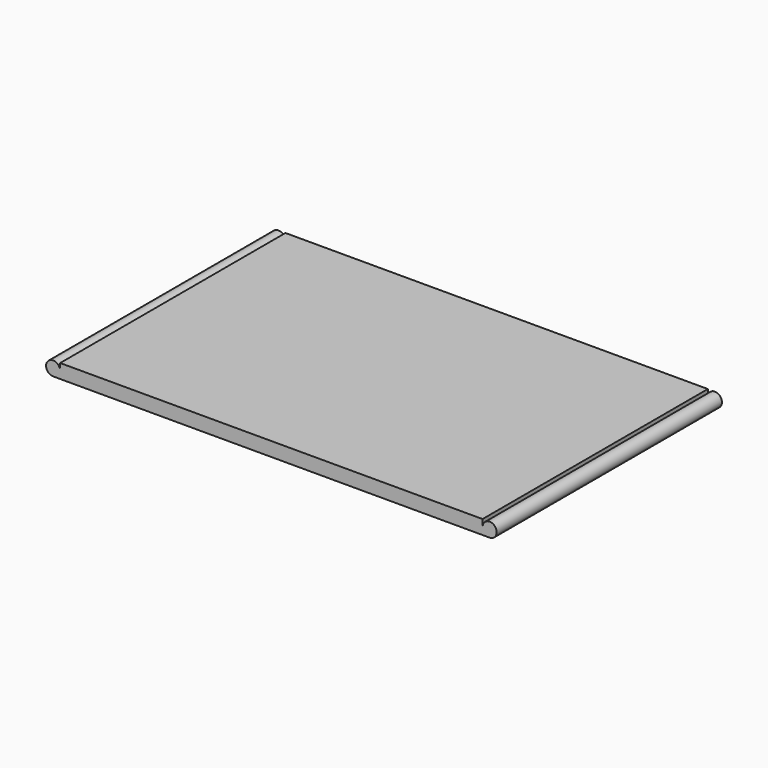
from build123d import *

# Parameters (mm, degrees)
F1_DEPTH = 100


with BuildPart() as f1:
    # F0 (on Front) → F1 (new body, symmetric)
    with BuildSketch(Plane.XZ):
        with BuildLine():
            Line((-155, -5), (155, -5))
            ThreePointArc((155, -5), (158.535534, 3.535534), (150, 0))
            Line((150, 0), (150, 5))
            Line((150, 5), (-150, 5))
            Line((-150, 5), (-150, 0))
            ThreePointArc((-150, 0), (-158.535534, 3.535534), (-155, -5))
        make_face()
    extrude(amount=F1_DEPTH, both=True)


solid = f1.part
